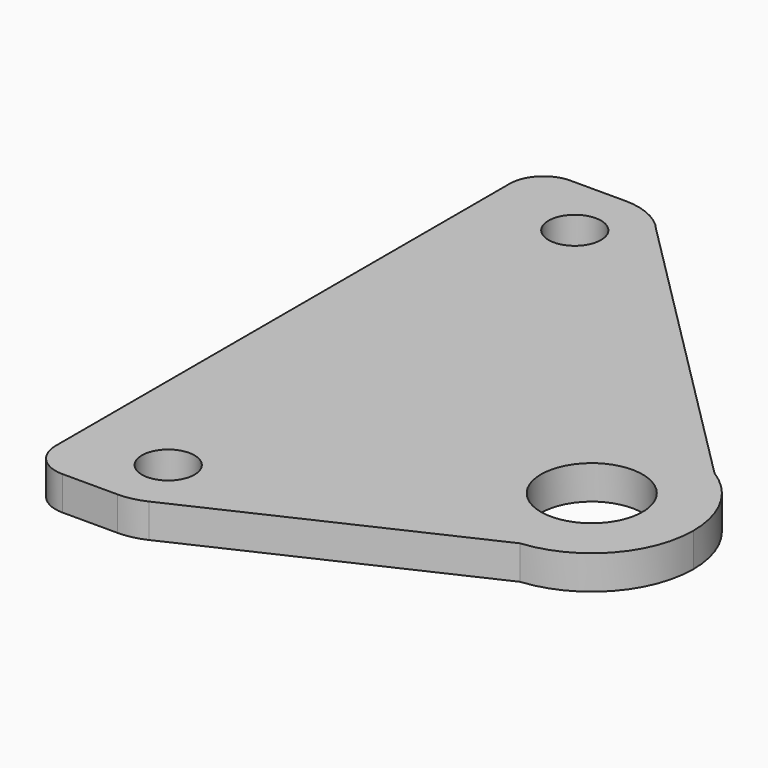
from build123d import *

# Parameters (mm, degrees)
F0_R     = 1.55
F1_DEPTH = 2


with BuildPart() as f1:
    # F0 (on Top) → F1 (new body)
    with BuildSketch(Plane.XY):
        with BuildLine():
            ThreePointArc((-16.172266, 22.14651), (-18.823916, 15.744859), (-12.422266, 18.39651))
            ThreePointArc((-12.422266, 18.39651), (-12.649988, 19.683391), (-13.305499, 20.813977))
            ThreePointArc((-13.305499, 20.813977), (-14.591602, 21.797098), (-16.172266, 22.14651))
        make_face()
        with Locations((-16.172266, 18.39651)):
            Circle(F0_R, mode=Mode.SUBTRACT)
        with BuildLine():
            ThreePointArc((-13.305499, 20.813977), (-12.649988, 19.683391), (-12.422266, 18.39651))
            ThreePointArc((-12.422266, 18.39651), (-18.823916, 15.744859), (-16.172266, 22.14651))
            Line((-16.172266, 22.14651), (-19.422266, 22.14651))
            ThreePointArc((-19.422266, 22.14651), (-20.836479, 21.560723), (-21.422266, 20.14651))
            Line((-21.422266, 20.14651), (-21.422266, 3.39651))
            Line((-21.422266, 3.39651), (-21.422266, -13.35349))
            ThreePointArc((-21.422266, -13.35349), (-20.836479, -14.767704), (-19.422266, -15.35349))
            Line((-19.422266, -15.35349), (-16.172266, -15.35349))
            ThreePointArc((-16.172266, -15.35349), (-18.823916, -8.95184), (-12.422266, -11.60349))
            ThreePointArc((-12.422266, -11.60349), (-13.01057, -13.619968), (-14.590896, -15.003751))
            Line((-14.590896, -15.003751), (1.3749, -7.578489))
            ThreePointArc((1.3749, -7.578489), (-3.21683, -6.035363), (-5.172266, -1.60349))
            ThreePointArc((-5.172266, -1.60349), (-2.086051, 3.641494), (3.997687, 3.490761))
            Line((3.997687, 3.490761), (-13.305499, 20.813977))
        make_face()
        with BuildLine():
            ThreePointArc((3.827734, -1.60349), (0.827734, 1.39651), (-2.172266, -1.60349))
            ThreePointArc((-2.172266, -1.60349), (0.827734, -4.60349), (3.827734, -1.60349))
        make_face()
        with BuildLine():
            ThreePointArc((6.827734, -1.60349), (6.072718, 1.310295), (3.997687, 3.490761))
            ThreePointArc((3.997687, 3.490761), (-2.086051, 3.641494), (-5.172266, -1.60349))
            ThreePointArc((-5.172266, -1.60349), (-3.21683, -6.035363), (1.3749, -7.578489))
            ThreePointArc((1.3749, -7.578489), (5.259607, -5.648055), (6.827734, -1.60349))
        make_face()
        with BuildLine():
            ThreePointArc((3.827734, -1.60349), (0.827734, -4.60349), (-2.172266, -1.60349))
            ThreePointArc((-2.172266, -1.60349), (0.827734, 1.39651), (3.827734, -1.60349))
        make_face(mode=Mode.SUBTRACT)
        with BuildLine():
            ThreePointArc((-16.172266, -15.35349), (-15.362475, -15.265012), (-14.590896, -15.003751))
            ThreePointArc((-14.590896, -15.003751), (-13.01057, -13.619968), (-12.422266, -11.60349))
            ThreePointArc((-12.422266, -11.60349), (-18.823916, -8.95184), (-16.172266, -15.35349))
        make_face()
        with Locations((-16.172266, -11.60349)):
            Circle(F0_R, mode=Mode.SUBTRACT)
    extrude(amount=F1_DEPTH)


solid = f1.part
